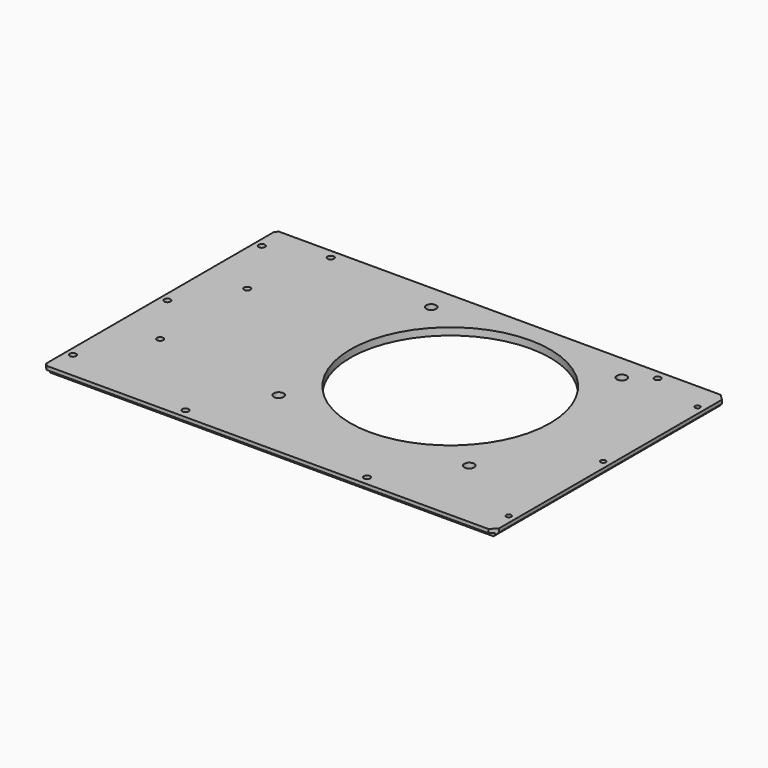
from build123d import *

# Parameters (mm, degrees)
SKETCH010_W             = 248
SKETCH010_H             = 160
PAD006_DEPTH            = 4
SKETCH013_R             = 55
SKETCH013_R_2           = 2.75
SKETCH013_R_3           = 1.75
SKETCH013_R_4           = 1.4
POCKET005_DEPTH         = 5
SKETCH050_W             = 2
SKETCH050_H             = 2
POCKET031_DEPTH         = 838.3229460599
CHAMFER_SIZE            = 2
POCKET037_DEPTH         = 5
CHAMFER034_SIZE         = 1.5
CHAMFER035_SIZE         = 2
SKETCH058_R             = 3
PAD024_DEPTH            = 3
SKETCH059_R             = 1.4
POCKET042_DEPTH         = 5
BODY005_PLACEMENT_ANGLE = 180


with BuildPart() as part:
    # Sketch010 → Pad006 (new body)
    with BuildSketch(Plane.XY):
        Rectangle(SKETCH010_W, SKETCH010_H)
    extrude(amount=PAD006_DEPTH)

    # Sketch013 (on Face6 of Pad006) → Pocket005 (cut)
    with BuildSketch(Plane.XY.offset(4)):
        with Locations((-25, -13.5)):
            Circle(SKETCH013_R)
        with Locations((-77.5, 39)):
            Circle(SKETCH013_R_2)
        with Locations((27.5, 39)):
            Circle(SKETCH013_R_2)
        with Locations((27.5, -66)):
            Circle(SKETCH013_R_2)
        with Locations((-77.5, -66)):
            Circle(SKETCH013_R_2)
        with Locations((-50, 75)):
            Circle(SKETCH013_R_3)
        with Locations((90, -75)):
            Circle(SKETCH013_R_3)
        with Locations((-90, -75)):
            Circle(SKETCH013_R_3)
        with Locations((120, 65)):
            Circle(SKETCH013_R_3)
        with Locations((120, -65)):
            Circle(SKETCH013_R_3)
        with Locations((-120, 65)):
            Circle(SKETCH013_R_4)
        with Locations((-120, -65)):
            Circle(SKETCH013_R_4)
        with Locations((100, 30)):
            Circle(SKETCH013_R_3)
        with Locations((100, -30)):
            Circle(SKETCH013_R_3)
        with Locations((50, 75)):
            Circle(SKETCH013_R_3)
        with Locations((-120, 0)):
            Circle(SKETCH013_R_4)
        with Locations((120, 0)):
            Circle(SKETCH013_R_3)
    extrude(amount=-POCKET005_DEPTH, mode=Mode.SUBTRACT)

    # Sketch050 (on Face2 of Pocket005) → Pocket031 (cut, through all)
    with BuildSketch(Plane(origin=(-124, 0, 0), x_dir=(0, -1, 0), z_dir=(-1, 0, 0))):
        with Locations((79, 1)):
            Rectangle(SKETCH050_W, SKETCH050_H)
    pocket031 = extrude(amount=-POCKET031_DEPTH, mode=Mode.SUBTRACT)

    # Mirrored004: Pocket031 across Sketch050 V_Axis
    add(pocket031.mirror(Plane(origin=(-124, 0, 0), x_dir=(-1, 0, 0), z_dir=(0, -1, 0))), mode=Mode.SUBTRACT)

    # Chamfer
    chamfer_edges = [part.edges().sort_by_distance(p)[0] for p in [
        (-124, 0, 0),
    ]]
    chamfer(chamfer_edges, length=CHAMFER_SIZE)

    # Sketch051 → Pocket037 (cut)
    with BuildSketch(Plane(origin=(0, 0, 0), x_dir=(1, 0, 0), z_dir=(0, 0, -1))):
        Polygon((-125, 75.7573593129), (-120.7573593129, 80), (-125, 80), align=None)
        Polygon((-120.7573593129, -80), (-125, -75.7573593129), (-125, -80), align=None)
    extrude(amount=-POCKET037_DEPTH, mode=Mode.SUBTRACT)

    # Chamfer034
    chamfer034_edges = [part.edges().sort_by_distance(p)[0] for p in [
        (124, -80, 3),
        (124, 80, 3),
    ]]
    chamfer(chamfer034_edges, length=CHAMFER034_SIZE)

    # Chamfer035
    chamfer035_edges = [part.edges().sort_by_distance(p)[0] for p in [
        (124, 0, 0),
    ]]
    chamfer(chamfer035_edges, length=CHAMFER035_SIZE)

    # Sketch058 (on Face9 of Chamfer035) → Pad024 (join)
    with BuildSketch(Plane(origin=(0, 0, 0), x_dir=(1, 0, 0), z_dir=(0, 0, -1))):
        with Locations((50, 25)):
            Circle(SKETCH058_R)
        with Locations((78, 25)):
            Circle(SKETCH058_R)
        with Locations((50, -25)):
            Circle(SKETCH058_R)
        with Locations((78, -25)):
            Circle(SKETCH058_R)
    extrude(amount=PAD024_DEPTH)

    # Sketch059 (on Face39 of Pad024) → Pocket042 (cut)
    with BuildSketch(Plane(origin=(0, 0, -3), x_dir=(1, 0, 0), z_dir=(0, 0, -1))):
        with Locations((50, 25)):
            Circle(SKETCH059_R)
        with Locations((78, 25)):
            Circle(SKETCH059_R)
        with Locations((50, -25)):
            Circle(SKETCH059_R)
        with Locations((78, -25)):
            Circle(SKETCH059_R)
    extrude(amount=-POCKET042_DEPTH, mode=Mode.SUBTRACT)


with BuildPart() as part_1:
    # Body005 placement: moved
    add(part.part.moved(Location((0, 0, 32.5))).rotate(Axis((0, 0, 32.5), (0, 0, 1)), BODY005_PLACEMENT_ANGLE))


solid = part_1.part
